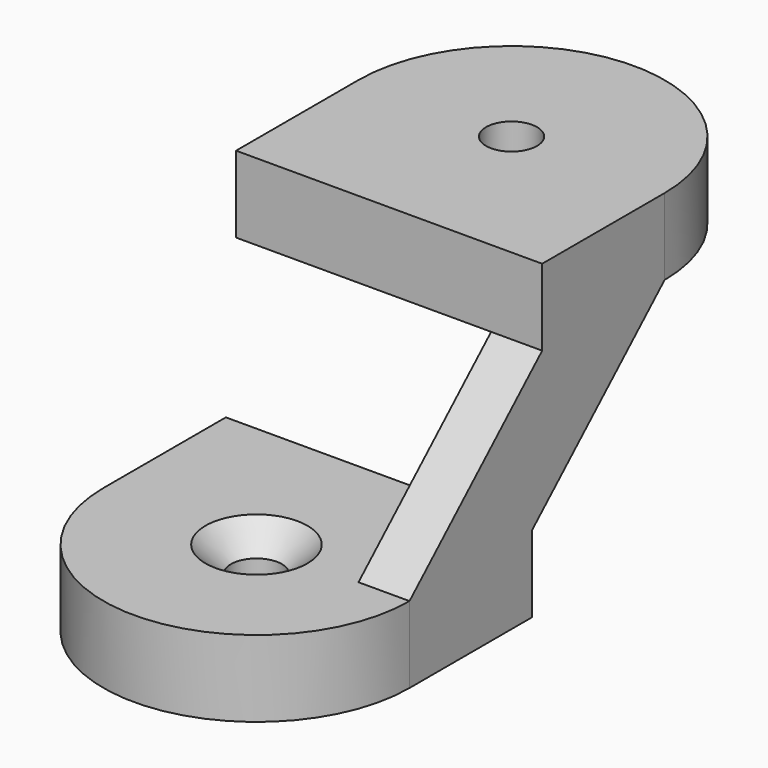
from build123d import *

# Parameters (mm, degrees)
SKETCH_R     = 2
PAD_DEPTH    = 6
PAD001_DEPTH = 4
SKETCH004_R  = 2
PAD002_DEPTH = 6
CHAMFER_SIZE = 2


with BuildPart() as part:
    # Sketch → Pad (new body)
    with BuildSketch(Plane.XY):
        with BuildLine():
            Line((-12, 0), (-12, 12))
            Line((-12, 12), (12, 12))
            Line((12, 12), (12, 0))
            ThreePointArc((-12, 0), (0, -12), (12, 0))
        make_face()
        Circle(SKETCH_R, mode=Mode.SUBTRACT)
    extrude(amount=PAD_DEPTH)

    # Sketch003 (on Face3 of Pad) → Pad001 (join)
    with BuildSketch(Plane.YZ.offset(12)):
        Polygon((0, 6), (13, 18), (25, 18), (12, 6), align=None)
    extrude(amount=-PAD001_DEPTH)

    # Sketch004 (on Face12 of Pad001) → Pad002 (join)
    with BuildSketch(Plane.XY.offset(18)):
        with BuildLine():
            Line((12, 25), (12, 13))
            Line((12, 13), (-12, 13))
            Line((-12, 13), (-12, 25))
            ThreePointArc((12, 25), (0, 37), (-12, 25))
        make_face()
        with Locations((0, 25)):
            Circle(SKETCH004_R, mode=Mode.SUBTRACT)
    extrude(amount=PAD002_DEPTH)

    # Chamfer
    chamfer_edges = [part.edges().sort_by_distance(p)[0] for p in [
        (-2, 0, 6),
        (-2, 25, 18),
    ]]
    chamfer(chamfer_edges, length=CHAMFER_SIZE)


solid = part.part
